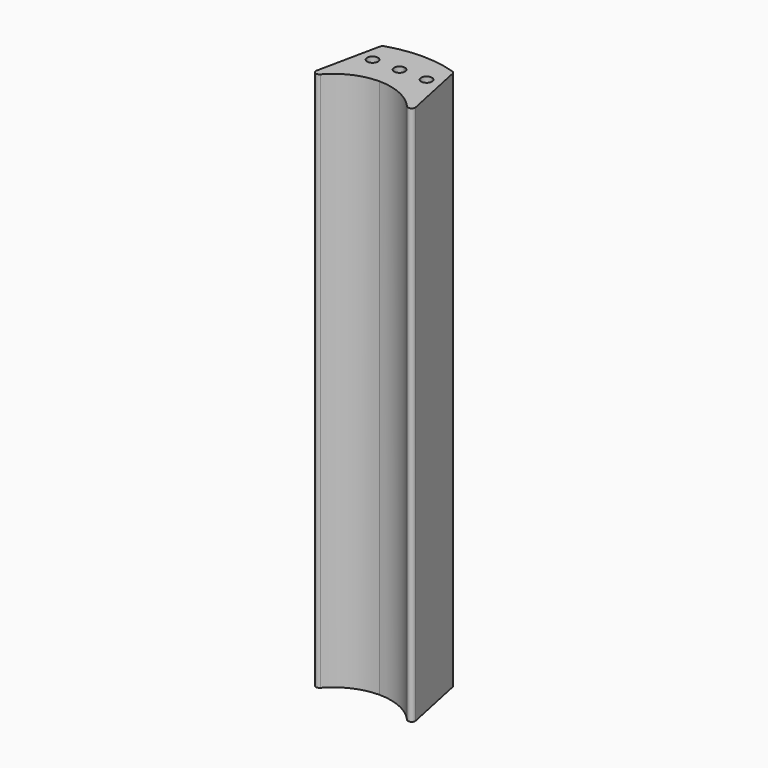
from build123d import *

# Parameters (mm, degrees)
F0_R     = 1.5
F1_DEPTH = 150


with BuildPart() as f1:
    # F0 (on Top) → F1 (new body)
    with BuildSketch(Plane.XY):
        with BuildLine():
            ThreePointArc((0, 16), (6.612297, 14.569747), (12.042437, 10.534691))
            ThreePointArc((12.042437, 10.534691), (13.241723, 10.298392), (13.773683, 11.398912))
            Line((13.773683, 11.398912), (10.118439, 28.779623))
            ThreePointArc((10.118439, 28.779623), (9.88218, 29.24385), (9.444507, 29.526281))
            ThreePointArc((9.444507, 29.526281), (4.779397, 30.629355), (0, 31))
            Line((0, 31), (0, 24.5))
            ThreePointArc((0, 24.5), (1.06066, 24.06066), (1.5, 23))
            ThreePointArc((1.5, 23), (1.06066, 21.93934), (0, 21.5))
            Line((0, 21.5), (0, 16))
        make_face()
        with Locations((7.5, 23)):
            Circle(F0_R, mode=Mode.SUBTRACT)
        with BuildLine():
            ThreePointArc((-12.042437, 10.534691), (-6.612297, 14.569747), (0, 16))
            Line((0, 16), (0, 21.5))
            ThreePointArc((0, 21.5), (-1.5, 23), (0, 24.5))
            Line((0, 24.5), (0, 31))
            ThreePointArc((0, 31), (-4.779397, 30.629355), (-9.444507, 29.526281))
            ThreePointArc((-9.444507, 29.526281), (-9.88218, 29.24385), (-10.118439, 28.779623))
            Line((-10.118439, 28.779623), (-13.773683, 11.398912))
            ThreePointArc((-13.773683, 11.398912), (-13.241723, 10.298392), (-12.042437, 10.534691))
        make_face()
        with Locations((-7.5, 23)):
            Circle(F0_R, mode=Mode.SUBTRACT)
    extrude(amount=F1_DEPTH)


solid = f1.part
